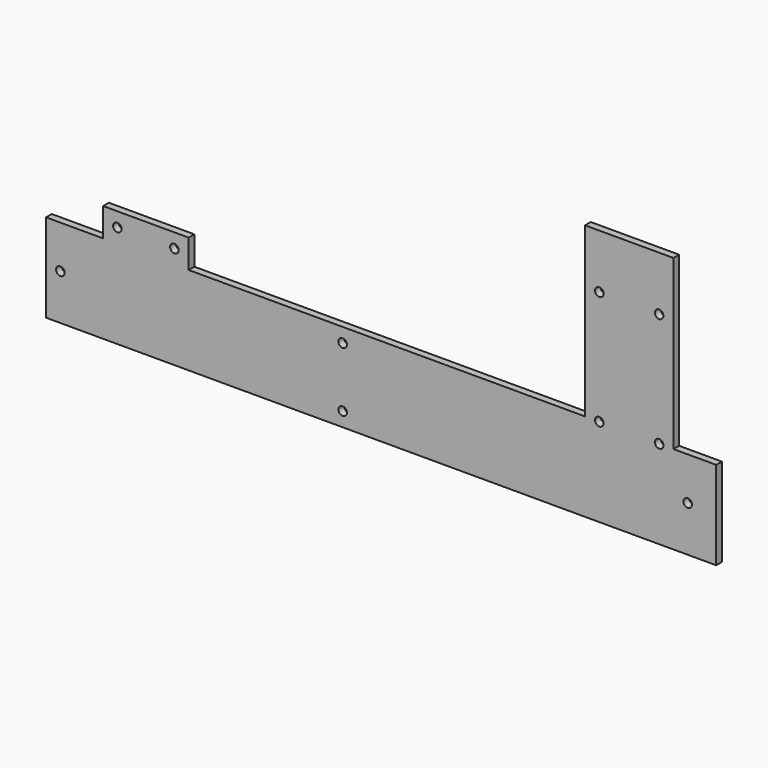
from build123d import *

# Parameters (mm, degrees)
F0_R     = 3
F1_DEPTH = 5


with BuildPart() as f1:
    # F0 (on Front) → F1 (new body)
    with BuildSketch(Plane.XZ):
        Polygon((62, 118), (0, 118), (0, 0), (-278, 0), (-278, 20), (-338, 20), (-338, 0), (-378, 0), (-378, -62), (92, -62), (92, 0), (62, 0), align=None)
        with Locations((-368, -30)):
            Circle(F0_R, mode=Mode.SUBTRACT)
        with Locations((-170, -52)):
            Circle(F0_R, mode=Mode.SUBTRACT)
        with Locations((-328, 10)):
            Circle(F0_R, mode=Mode.SUBTRACT)
        with Locations((-288, 10)):
            Circle(F0_R, mode=Mode.SUBTRACT)
        with Locations((-170, -10)):
            Circle(F0_R, mode=Mode.SUBTRACT)
        with Locations((72, -30)):
            Circle(F0_R, mode=Mode.SUBTRACT)
        with Locations((10, 0)):
            Circle(F0_R, mode=Mode.SUBTRACT)
        with Locations((52, 0)):
            Circle(F0_R, mode=Mode.SUBTRACT)
        with Locations((10, 80)):
            Circle(F0_R, mode=Mode.SUBTRACT)
        with Locations((52, 80)):
            Circle(F0_R, mode=Mode.SUBTRACT)
    extrude(amount=F1_DEPTH)


solid = f1.part
